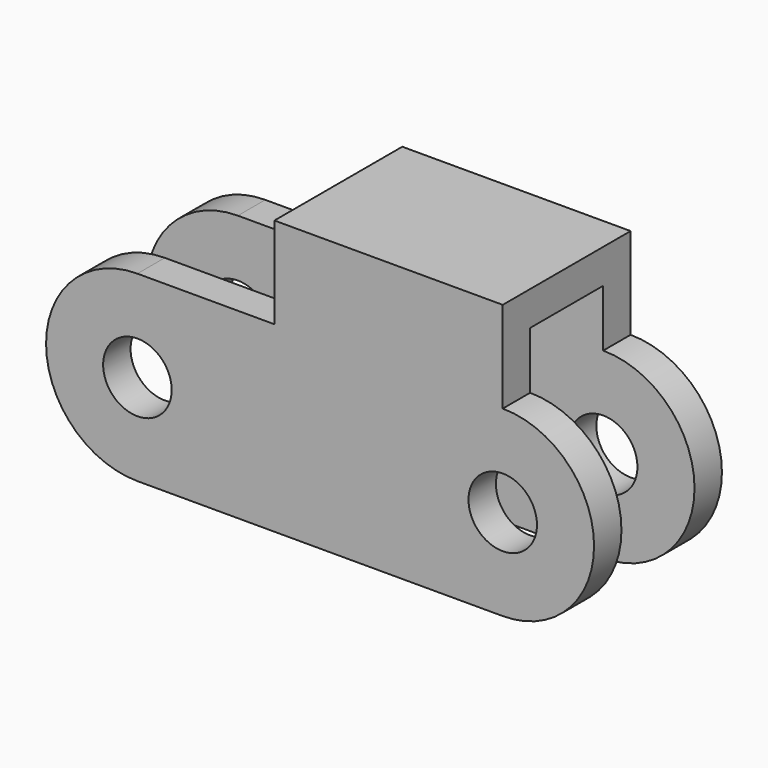
from build123d import *

# Parameters (mm, degrees)
F0_R     = 3
F0_W     = 20
F0_H     = 8
F1_DEPTH = 7
F2_W     = 8
F2_H     = 26
F3_DEPTH = 58.89286


with BuildPart() as f1:
    # F0 (on Front) → F1 (new body, symmetric)
    with BuildSketch(Plane.XZ):
        with BuildLine():
            ThreePointArc((0, -8), (8, 0), (0, 8))
            Line((0, 8), (-20, 8))
            Line((-20, 8), (-32, 8))
            ThreePointArc((-32, 8), (-40, 0), (-32, -8))
            Line((-32, -8), (0, -8))
        make_face()
        with Locations((-32, 0)):
            Circle(F0_R, mode=Mode.SUBTRACT)
        Circle(F0_R, mode=Mode.SUBTRACT)
        with Locations((-10, 12)):
            Rectangle(F0_W, F0_H)
    extrude(amount=F1_DEPTH, both=True)

    # F2 (on Right) → F3 (cut, symmetric)
    with BuildSketch(Plane.YZ):
        Rectangle(F2_W, F2_H)
    extrude(amount=F3_DEPTH, both=True, mode=Mode.SUBTRACT)


solid = f1.part
